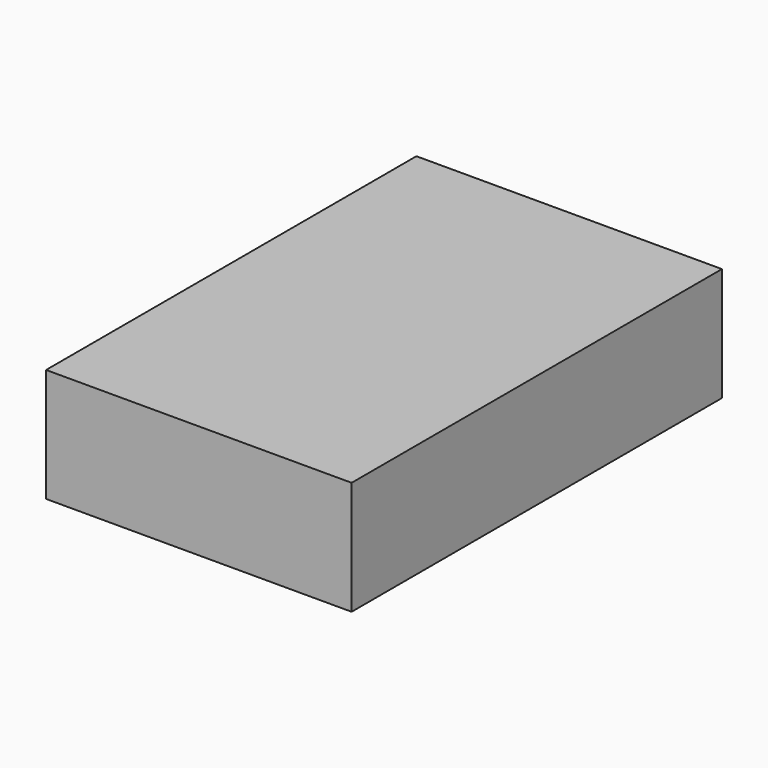
from build123d import *

# Parameters (mm, degrees)
SKETCH_W  = 56.5
SKETCH_H  = 85.6
PAD_DEPTH = 21


with BuildPart() as part:
    # Sketch → Pad (new body)
    with BuildSketch(Plane.XY):
        with Locations((36.25, 12.8)):
            Rectangle(SKETCH_W, SKETCH_H)
    extrude(amount=PAD_DEPTH)


solid = part.part
